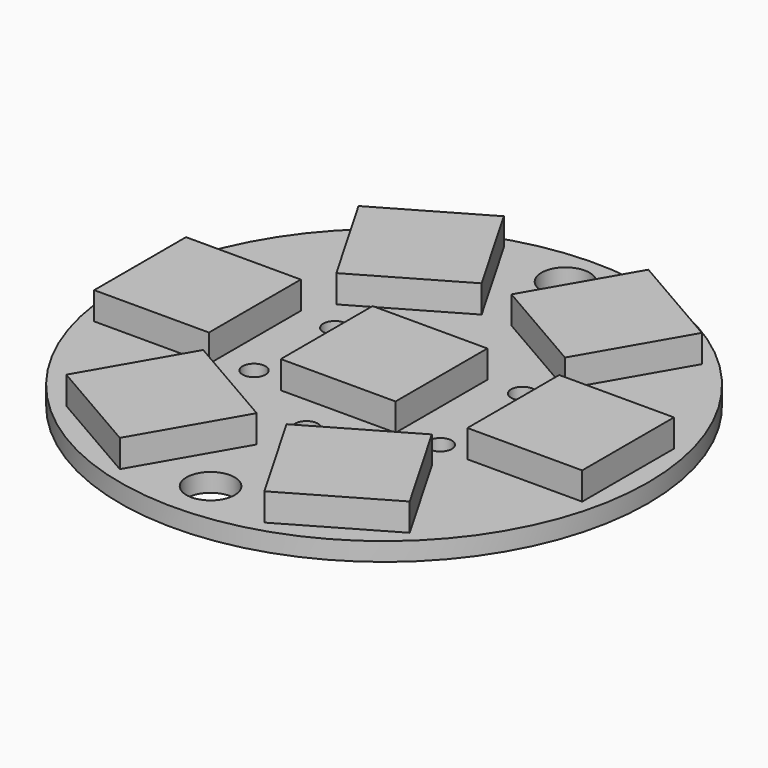
from build123d import *

# Parameters (mm, degrees)
F0_R     = 11.5
F0_R_2   = 0.5
F0_R_3   = 1.05
F0_W     = 5
F0_H     = 5
F1_DEPTH = 0.8
F2_DEPTH = 1.2


with BuildPart() as f1:
    # F0 (on Top) → F1 (new body)
    with BuildSketch(Plane.XY):
        Circle(F0_R)
        Polygon((-4.980064, -3.625723), (-0.649936, -6.125723), (-3.149936, -10.45585), (-7.480064, -7.95585), align=None, mode=Mode.SUBTRACT)
        with Locations((-0.092426, -4.110796)):
            Circle(F0_R_2, mode=Mode.SUBTRACT)
        with Locations((-4.127668, -1.922055)):
            Circle(F0_R_2, mode=Mode.SUBTRACT)
        with Locations((0.046018, -9.505966)):
            Circle(F0_R_3, mode=Mode.SUBTRACT)
        Polygon((0.649936, -6.125723), (4.980064, -3.625723), (7.480064, -7.95585), (3.149936, -10.45585), align=None, mode=Mode.SUBTRACT)
        with Locations((4.24384, -2.238264)):
            Circle(F0_R_2, mode=Mode.SUBTRACT)
        with Locations((-8.13, 0)):
            Rectangle(F0_W, F0_H, mode=Mode.SUBTRACT)
        with Locations((-3.94603, 2.246665)):
            Circle(F0_R_2, mode=Mode.SUBTRACT)
        Polygon((-0.649936, 6.125723), (-4.980064, 3.625723), (-7.480064, 7.95585), (-3.149936, 10.45585), align=None, mode=Mode.SUBTRACT)
        Rectangle(F0_W, F0_H, mode=Mode.SUBTRACT)
        with Locations((4.07016, 2.455426)):
            Circle(F0_R_2, mode=Mode.SUBTRACT)
        with Locations((8.13, 0)):
            Rectangle(F0_W, F0_H, mode=Mode.SUBTRACT)
        Polygon((4.980064, 3.625723), (0.649936, 6.125723), (3.149936, 10.45585), (7.480064, 7.95585), align=None, mode=Mode.SUBTRACT)
        with Locations((0.057833, 9.808174)):
            Circle(F0_R_3, mode=Mode.SUBTRACT)
        Polygon((-7.480064, 7.95585), (-4.980064, 3.625723), (-0.649936, 6.125723), (-3.149936, 10.45585), align=None)
        Polygon((3.149936, 10.45585), (0.649936, 6.125723), (4.980064, 3.625723), (7.480064, 7.95585), align=None)
        with Locations((8.13, 0)):
            Rectangle(F0_W, F0_H)
        with Locations((-8.13, 0)):
            Rectangle(F0_W, F0_H)
        Rectangle(F0_W, F0_H)
        Polygon((-3.149936, -10.45585), (-0.649936, -6.125723), (-4.980064, -3.625723), (-7.480064, -7.95585), align=None)
        Polygon((7.480064, -7.95585), (4.980064, -3.625723), (0.649936, -6.125723), (3.149936, -10.45585), align=None)
    extrude(amount=-F1_DEPTH)

    # F0 (on Top) → F2 (join)
    with BuildSketch(Plane.XY):
        Polygon((-7.480064, 7.95585), (-4.980064, 3.625723), (-0.649936, 6.125723), (-3.149936, 10.45585), align=None)
        Polygon((3.149936, 10.45585), (0.649936, 6.125723), (4.980064, 3.625723), (7.480064, 7.95585), align=None)
        with Locations((-8.13, 0)):
            Rectangle(F0_W, F0_H)
        Rectangle(F0_W, F0_H)
        with Locations((8.13, 0)):
            Rectangle(F0_W, F0_H)
        Polygon((-3.149936, -10.45585), (-0.649936, -6.125723), (-4.980064, -3.625723), (-7.480064, -7.95585), align=None)
        Polygon((7.480064, -7.95585), (4.980064, -3.625723), (0.649936, -6.125723), (3.149936, -10.45585), align=None)
    extrude(amount=F2_DEPTH)


solid = f1.part
